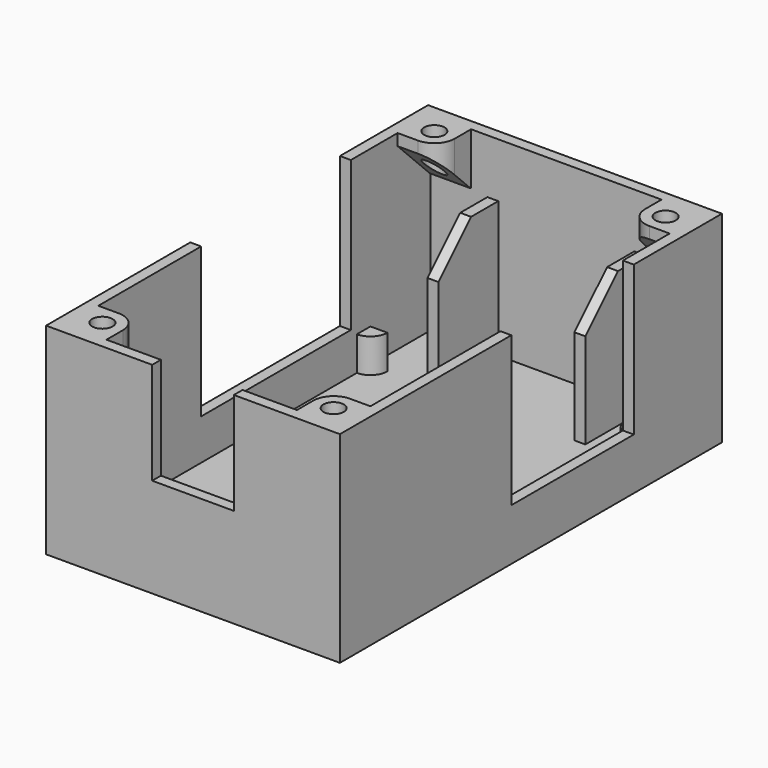
from build123d import *

# Parameters (mm, degrees)
SKETCH_W        = 43.2
SKETCH_H        = 70.2
PAD_DEPTH       = 1.6
SKETCH001_W     = 43.2
SKETCH001_H     = 70.2
SKETCH001_W_2   = 40
SKETCH001_H_2   = 67
PAD001_DEPTH    = 28
PAD002_DEPTH    = 5
SKETCH003_W     = 1.6
SKETCH003_H     = 27.5
SKETCH003_H_2   = 22.5
POCKET_DEPTH    = 22
SKETCH004_W     = 1.6
SKETCH004_H     = 11
PAD003_DEPTH    = 20
SKETCH005_W     = 12
SKETCH005_H     = 1.6
POCKET001_DEPTH = 15
SKETCH006_W     = 6
SKETCH006_H     = 6
PAD004_DEPTH    = 7.6
CHAMFER_SIZE    = 5.9
SKETCH007_R     = 1.5
POCKET002_DEPTH = 10
FILLET_R        = 3
CHAMFER001_SIZE = 6


with BuildPart() as part:
    # Sketch → Pad (new body)
    with BuildSketch(Plane.XY):
        with Locations((21.6, 35.1)):
            Rectangle(SKETCH_W, SKETCH_H)
    extrude(amount=PAD_DEPTH)

    # Sketch001 (on Face6 of Pad) → Pad001 (join)
    with BuildSketch(Plane.XY.offset(1.6)):
        with Locations((21.6, 35.1)):
            Rectangle(SKETCH001_W, SKETCH001_H)
        with Locations((21.6, 35.1)):
            Rectangle(SKETCH001_W_2, SKETCH001_H_2, mode=Mode.SUBTRACT)
    extrude(amount=PAD001_DEPTH)

    # Sketch002 (on Face15 of Pad001) → Pad002 (join)
    with BuildSketch(Plane.XY.offset(1.6)):
        with BuildLine():
            ThreePointArc((4.1, 1.6), (3.367767, 3.367767), (1.6, 4.1))
            Line((1.6, 4.1), (1.6, 1.6))
            Line((4.1, 1.6), (1.6, 1.6))
        make_face()
        with BuildLine():
            ThreePointArc((41.6, 4.1), (39.832233, 3.367767), (39.1, 1.6))
            Line((41.6, 1.6), (39.1, 1.6))
            Line((41.6, 4.1), (41.6, 1.6))
        make_face()
        with BuildLine():
            ThreePointArc((1.6, 55.1), (3.367767, 55.832233), (4.1, 57.6))
            Line((4.1, 57.6), (1.6, 57.6))
            Line((1.6, 55.1), (1.6, 57.6))
        make_face()
        with BuildLine():
            ThreePointArc((39.1, 57.6), (39.832233, 55.832233), (41.6, 55.1))
            Line((41.6, 55.1), (41.6, 57.6))
            Line((39.1, 57.6), (41.6, 57.6))
        make_face()
    extrude(amount=PAD002_DEPTH)

    # Sketch003 (on Face9 of Pad002) → Pocket (cut)
    with BuildSketch(Plane.XY.offset(29.6)):
        with Locations((0.8, 40.25)):
            Rectangle(SKETCH003_W, SKETCH003_H)
        with Locations((42.4, 42.75)):
            Rectangle(SKETCH003_W, SKETCH003_H_2)
    extrude(amount=-POCKET_DEPTH, mode=Mode.SUBTRACT)

    # Sketch004 (on Face22 of Pocket) → Pad003 (join)
    with BuildSketch(Plane.XY.offset(1.6)):
        with Locations((10.8, 63.1)):
            Rectangle(SKETCH004_W, SKETCH004_H)
        with Locations((32.4, 63.1)):
            Rectangle(SKETCH004_W, SKETCH004_H)
    extrude(amount=PAD003_DEPTH)

    # Sketch005 (on Face9 of Pad003) → Pocket001 (cut)
    with BuildSketch(Plane.XY.offset(29.6)):
        with Locations((21.6, 0.8)):
            Rectangle(SKETCH005_W, SKETCH005_H)
    extrude(amount=-POCKET001_DEPTH, mode=Mode.SUBTRACT)

    # Sketch006 (on Face13 of Pocket001) → Pad004 (join)
    with BuildSketch(Plane.XY.offset(29.6)):
        with Locations((4.6, 4.6)):
            Rectangle(SKETCH006_W, SKETCH006_H)
        with Locations((38.6, 4.6)):
            Rectangle(SKETCH006_W, SKETCH006_H)
        with Locations((4.6, 65.6)):
            Rectangle(SKETCH006_W, SKETCH006_H)
        with Locations((38.6, 65.6)):
            Rectangle(SKETCH006_W, SKETCH006_H)
    extrude(amount=-PAD004_DEPTH)

    # Chamfer
    chamfer_edges = [part.edges().sort_by_distance(p)[0] for p in [
        (38.6, 62.6, 22),
        (4.6, 62.6, 22),
        (38.6, 7.6, 22),
        (4.6, 7.6, 22),
    ]]
    chamfer(chamfer_edges, length=CHAMFER_SIZE)

    # Sketch007 → Pocket002 (cut)
    with BuildSketch(Plane.XY.offset(29.6)):
        with Locations((4.6, 4.6)):
            Circle(SKETCH007_R)
        with Locations((38.6, 4.6)):
            Circle(SKETCH007_R)
        with Locations((4.6, 65.6)):
            Circle(SKETCH007_R)
        with Locations((38.6, 65.6)):
            Circle(SKETCH007_R)
    extrude(amount=-POCKET002_DEPTH, mode=Mode.SUBTRACT)

    # Fillet
    fillet_edges = [part.edges().sort_by_distance(p)[0] for p in [
        (7.6, 62.6, 28.75),
        (35.6, 62.6, 28.75),
        (7.6, 7.6, 28.75),
        (35.6, 7.6, 28.75),
    ]]
    fillet(fillet_edges, radius=FILLET_R)

    # Chamfer001
    chamfer001_edges = [part.edges().sort_by_distance(p)[0] for p in [
        (10.8, 57.6, 21.6),
        (32.4, 57.6, 21.6),
    ]]
    chamfer(chamfer001_edges, length=CHAMFER001_SIZE)


solid = part.part
